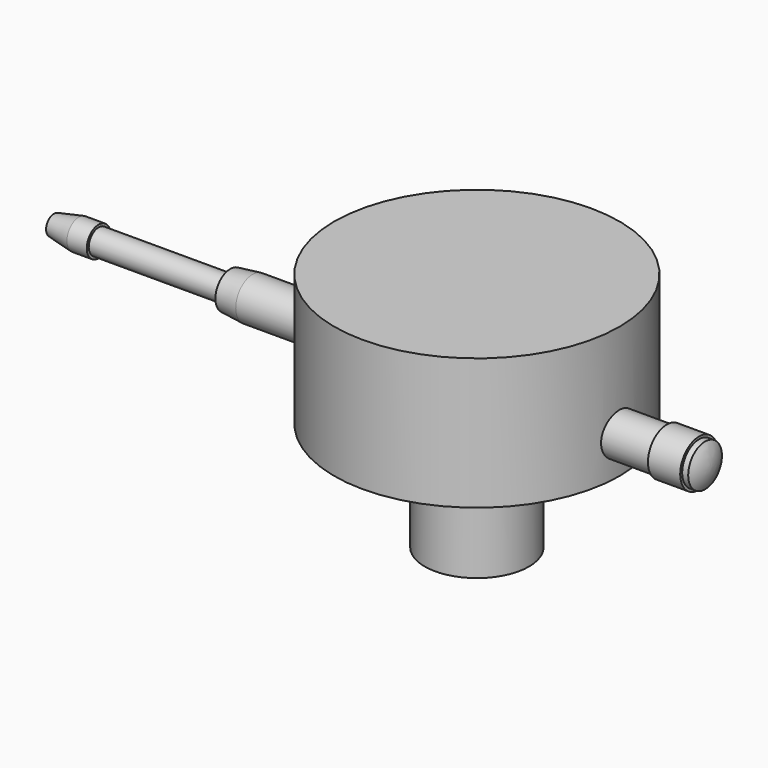
from build123d import *

# Parameters (mm, degrees)
SKETCH002_R  = 28.75
PAD_DEPTH    = 26.5
SKETCH003_R  = 10.5
PAD001_DEPTH = 22


with BuildPart() as part:
    # Sketch → Revolution (revolve)
    with BuildSketch(Plane.XZ):
        with BuildLine():
            Line((-132.5, 0), (0, 0))
            ThreePointArc((0, 0), (-0.319822, 2.215454), (-1.253174, 4.25))
            Line((-1.253174, 4.25), (-2.465385, 4.25))
            Line((-2.465385, 4.25), (-2.465385, 4.75))
            Line((-2.465385, 4.75), (-8.965385, 4.75))
            Line((-8.965385, 4.75), (-8.965385, 4.25))
            Line((-8.965385, 4.25), (-92.465385, 4.25))
            Line((-92.465385, 4.25), (-96.965385, 3.75))
            Line((-96.965385, 3.75), (-96.965385, 2.5))
            Line((-96.965385, 2.5), (-123.5, 2.5))
            Line((-123.5, 2.5), (-123.5, 3))
            Line((-123.5, 3), (-127.5, 3))
            Line((-127.5, 3), (-132.5, 2))
            Line((-132.5, 2), (-132.5, 0))
        make_face()
    revolve(axis=Axis((0, 0, 0), (1, 0, 0)))

    # Sketch002 → Pad (new body)
    with BuildSketch(Plane.XY.offset(-7.5)):
        with Locations((-47.25, 0)):
            Circle(SKETCH002_R)
    extrude(amount=PAD_DEPTH)

    # Sketch003 → Pad001 (join)
    with BuildSketch(Plane.XY.offset(-7.5)):
        with Locations((-47.25, 0)):
            Circle(SKETCH003_R)
    extrude(amount=-PAD001_DEPTH)


solid = part.part
